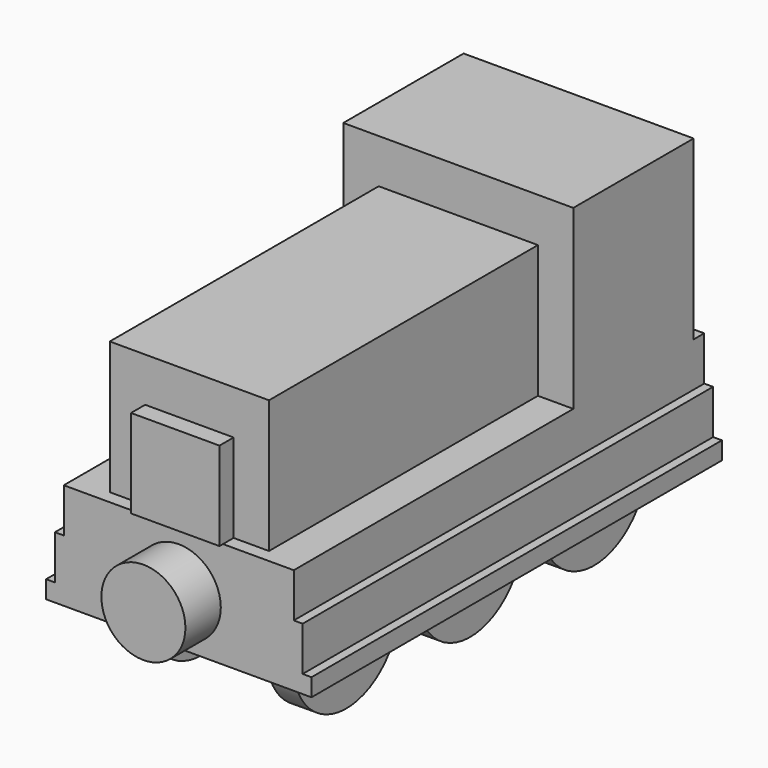
from build123d import *

# Parameters (mm, degrees)
F0_W      = 33.02
F0_H      = 25.4
F1_DEPTH  = 10.795
F2_W      = 22.86
F2_H      = 19.05
F3_DEPTH  = 48.26
F4_W      = 33.02
F4_H      = 15.24
F5_DEPTH  = 12.7
F6_W      = 33.02
F6_H      = 15.24
F7_DEPTH  = 48.26
F8_W      = 12.7
F8_H      = 12.7
F9_DEPTH  = 2.54
F10_W     = 7.112
F10_H     = 69.85
F11_DEPTH = 12.7
F13_R     = 6.033573
F14_DEPTH = 6.35
F12_R     = 9.525
F15_DEPTH = 3.81
F16_R     = 9.525
F17_DEPTH = 3.81
F18_R     = 9.525
F19_DEPTH = 3.81
F20_R     = 9.525
F21_DEPTH = 3.81
F22_R     = 9.525
F23_DEPTH = 3.81
F24_R     = 9.525
F25_DEPTH = 3.81
F26_R     = 6.066137
F27_DEPTH = 6.35
F28_W     = 73.66
F28_H     = 8.89
F29_DEPTH = 1.27
F30_W     = 73.66
F30_H     = 8.89
F31_DEPTH = 1.27
F32_W     = 73.66
F32_H     = 2.54
F33_DEPTH = 1.27
F34_W     = 73.66
F34_H     = 2.54
F35_DEPTH = 1.27
F36_W     = 4.064
F36_H     = 2.54
F37_DEPTH = 1.27


with BuildPart() as f1:
    # F0 (on Front) → F1 (new body, symmetric)
    with BuildSketch(Plane.XZ):
        Rectangle(F0_W, F0_H)
    extrude(amount=F1_DEPTH, both=True)

    # F2 (on face) → F3 (join)
    with BuildSketch(Plane.XZ.offset(10.795)):
        with Locations((0, -3.175)):
            Rectangle(F2_W, F2_H)
    extrude(amount=F3_DEPTH)

    # F4 (on Front) → F5 (join, symmetric)
    with BuildSketch(Plane.XZ):
        with Locations((0, -20.32)):
            Rectangle(F4_W, F4_H)
    extrude(amount=F5_DEPTH, both=True)

    # F6 (on face) → F7 (join)
    with BuildSketch(Plane.XZ.offset(12.7)):
        with Locations((0, -20.32)):
            Rectangle(F6_W, F6_H)
    extrude(amount=F7_DEPTH)

    # F8 (on face) → F9 (join)
    with BuildSketch(Plane.XZ.offset(59.055)):
        with Locations((0, -6.35)):
            Rectangle(F8_W, F8_H)
    extrude(amount=F9_DEPTH)

    # F10 (on face) → F11 (cut)
    with BuildSketch(Plane(origin=(0, 0, -27.94), x_dir=(1, 0, 0), z_dir=(0, 0, -1))):
        with Locations((-11.934741, 24.13)):
            Rectangle(F10_W, F10_H)
        with Locations((12.118584, 24.13)):
            Rectangle(F10_W, F10_H)
    extrude(amount=-F11_DEPTH, mode=Mode.SUBTRACT)

    # F13 (on face) → F14 (join)
    with BuildSketch(Plane.XZ.offset(60.96)):
        with Locations((0, -20.813061)):
            Circle(F13_R)
    extrude(amount=F14_DEPTH)

    # F12 (on face) → F15 (join)
    with BuildSketch(Plane(origin=(-8.378741, 0, 0), x_dir=(0, -1, 0), z_dir=(-1, 0, 0))):
        with Locations((24.13, -27.94)):
            Circle(F12_R)
    extrude(amount=F15_DEPTH)

    # F16 (on face) → F17 (join)
    with BuildSketch(Plane(origin=(-8.378741, 0, 0), x_dir=(0, -1, 0), z_dir=(-1, 0, 0))):
        with Locations((46.355, -27.94)):
            Circle(F16_R)
    extrude(amount=F17_DEPTH)

    # F18 (on face) → F19 (join)
    with BuildSketch(Plane(origin=(-8.378741, 0, 0), x_dir=(0, -1, 0), z_dir=(-1, 0, 0))):
        with Locations((1.905, -27.94)):
            Circle(F18_R)
    extrude(amount=F19_DEPTH)

    # F20 (on face) → F21 (join)
    with BuildSketch(Plane.YZ.offset(8.562584)):
        with Locations((-24.13, -27.94)):
            Circle(F20_R)
    extrude(amount=F21_DEPTH)

    # F22 (on face) → F23 (join)
    with BuildSketch(Plane.YZ.offset(8.562584)):
        with Locations((-1.905, -27.94)):
            Circle(F22_R)
    extrude(amount=F23_DEPTH)

    # F24 (on face) → F25 (join)
    with BuildSketch(Plane.YZ.offset(8.562584)):
        with Locations((-46.355, -27.94)):
            Circle(F24_R)
    extrude(amount=F25_DEPTH)

    # F26 (on face) → F27 (join)
    with BuildSketch(Plane(origin=(0, 12.7, 0), x_dir=(-1, 0, 0), z_dir=(0, 1, 0))):
        with Locations((0.010551, -20.824138)):
            Circle(F26_R)
    extrude(amount=F27_DEPTH)

    # F28 (on face) → F29 (join)
    with BuildSketch(Plane.YZ.offset(16.51)):
        with Locations((-24.13, -23.495)):
            Rectangle(F28_W, F28_H)
    extrude(amount=F29_DEPTH)

    # F30 (on face) → F31 (join)
    with BuildSketch(Plane(origin=(-16.51, 0, 0), x_dir=(0, -1, 0), z_dir=(-1, 0, 0))):
        with Locations((24.13, -23.495)):
            Rectangle(F30_W, F30_H)
    extrude(amount=F31_DEPTH)

    # F32 (on face) → F33 (join)
    with BuildSketch(Plane.YZ.offset(17.78)):
        with Locations((-24.13, -26.67)):
            Rectangle(F32_W, F32_H)
    extrude(amount=F33_DEPTH)

    # F34 (on face) → F35 (join)
    with BuildSketch(Plane(origin=(-17.78, 0, 0), x_dir=(0, -1, 0), z_dir=(-1, 0, 0))):
        with Locations((24.13, -26.67)):
            Rectangle(F34_W, F34_H)
    extrude(amount=F35_DEPTH)

    # F36 (on face) → F37 (cut)
    with BuildSketch(Plane(origin=(0, 10.795, 0), x_dir=(-1, 0, 0), z_dir=(0, 1, 0))):
        with Locations((-0.015461, -11.43)):
            Rectangle(F36_W, F36_H)
    extrude(amount=-F37_DEPTH, mode=Mode.SUBTRACT)


solid = f1.part
